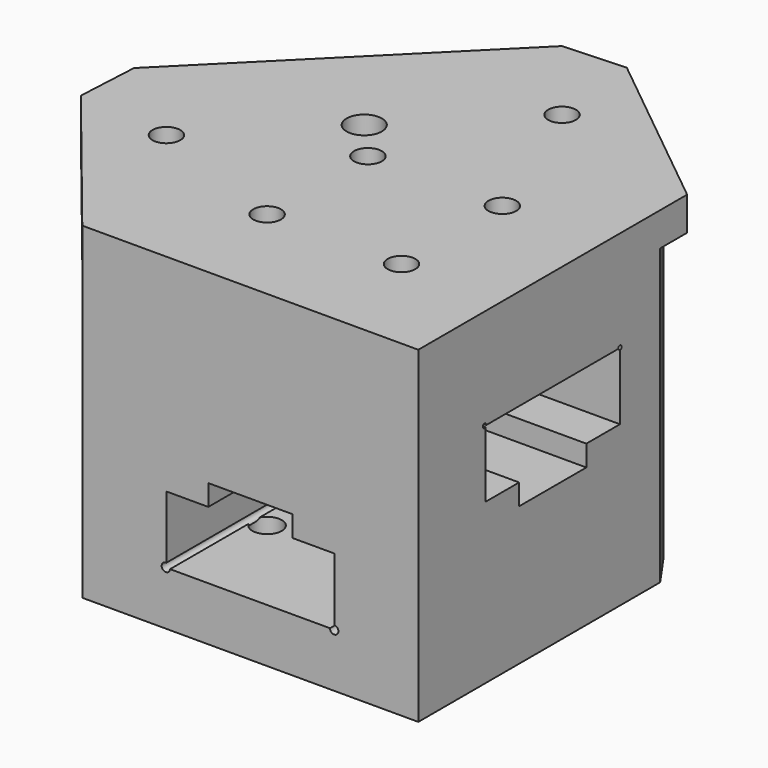
from build123d import *

# Parameters (mm, degrees)
PAD_DEPTH            = 35
POCKET_DEPTH         = 40.001
POCKET001_DEPTH      = 42.698592
SKETCH021_W          = 20
SKETCH021_H          = 20
POCKET002_DEPTH      = 3
POCKET002_DEPTH_BACK = -2
SKETCH016_R          = 0.5
POCKET003_DEPTH      = 42.698592
SKETCH015_R          = 0.25
POCKET004_DEPTH      = 40.001
POCKET005_DEPTH      = 37.501
PAD001_DEPTH         = 4
SKETCH024_R          = 1.65
POCKET006_DEPTH      = 39.001
SKETCH008_R          = 2.1
POCKET007_DEPTH      = 39.001
SKETCH003_R          = 1.65
POCKET008_DEPTH      = 16
SKETCH004_R          = 1.75
POCKET009_DEPTH      = 13
POCKET010_DEPTH      = 15.5
POCKET010_DEPTH_BACK = -16
SKETCH017_R          = 1.375
POCKET011_DEPTH      = 13.001
CHAMFER_SIZE         = 5


with BuildPart() as part:
    # Sketch → Pad (new body)
    with BuildSketch(Plane.XY):
        with BuildLine():
            Line((20, 20), (20, -20))
            Line((20, -20), (-20, -20))
            Line((-20, -20), (-20, 19.224144))
            ThreePointArc((-5.17104, 20), (-12.746205, 22.68325), (-20, 19.224144))
            Line((-5.17104, 20), (20, 20))
        make_face()
    extrude(amount=-PAD_DEPTH)

    # Sketch001 (on Face3 of Pad) → Pocket (cut, through all)
    with BuildSketch(Plane(origin=(-20, 0, 0), x_dir=(0, -1, 0), z_dir=(-1, 0, 0))):
        Polygon((-10, -8), (10, -8), (10, -16), (5, -16), (5, -18.5), (-5, -18.5), (-5, -16), (-10, -16), align=None)
    extrude(amount=-POCKET_DEPTH, mode=Mode.SUBTRACT)

    # Sketch019 (on Face5 of Pocket) → Pocket001 (cut, through all)
    with BuildSketch(Plane.XZ.offset(20)):
        Polygon((-10, -20.6), (-10, -28.6), (10, -28.6), (10, -20.6), (5, -20.6), (5, -18.1), (-5, -18.1), (-5, -20.6), align=None)
    extrude(amount=-POCKET001_DEPTH, mode=Mode.SUBTRACT)

    # Sketch021 → Pocket002 (cut, two sides)
    with BuildSketch(Plane.XY.offset(-12)) as pocket002_sk:
        Rectangle(SKETCH021_W, SKETCH021_H)
    extrude(amount=-POCKET002_DEPTH, mode=Mode.SUBTRACT)
    extrude(pocket002_sk.sketch, amount=-POCKET002_DEPTH_BACK, mode=Mode.SUBTRACT)

    # Sketch016 (on Face5 of Pocket002) → Pocket003 (cut, through all)
    with BuildSketch(Plane.XZ.offset(20)):
        with Locations((9.983657, -28.602995)):
            Circle(SKETCH016_R)
        with Locations((-10.053121, -28.576208)):
            Circle(SKETCH016_R)
    extrude(amount=-POCKET003_DEPTH, mode=Mode.SUBTRACT)

    # Sketch015 (on Face24 of Pocket003) → Pocket004 (cut, through all)
    with BuildSketch(Plane(origin=(-20, 0, 0), x_dir=(0, -1, 0), z_dir=(-1, 0, 0))):
        with Locations((-10.007711, -7.972068)):
            Circle(SKETCH015_R)
        with Locations((10.132993, -7.972068)):
            Circle(SKETCH015_R)
    extrude(amount=-POCKET004_DEPTH, mode=Mode.SUBTRACT)

    # Sketch025 → Pocket005 (cut, through all)
    with BuildSketch(Plane.XY.offset(2.5)):
        Polygon((10.336529, 29.786797), (28.676373, 3.594785), (36.756538, 10.988299), (24.594908, 30.303831), align=None)
    extrude(amount=-POCKET005_DEPTH, mode=Mode.SUBTRACT)

    # Sketch007 → Pad001 (join)
    with BuildSketch(Plane.XY):
        Polygon((20, -20), (20, 20), (-4.242641, 39.59798), (-39.59798, 4.242641), (-20, -20), align=None)
    extrude(amount=PAD001_DEPTH)

    # Sketch024 → Pocket006 (cut, through all)
    with BuildSketch(Plane.XY.offset(4)):
        with Locations((0.883883, 25.279067)):
            Circle(SKETCH024_R)
        with Locations((-25.279067, -0.883883)):
            Circle(SKETCH024_R)
    extrude(amount=-POCKET006_DEPTH, mode=Mode.SUBTRACT)

    # Sketch008 → Pocket007 (cut, through all)
    with BuildSketch(Plane.XY.offset(4)):
        with Locations((-12.197592, 12.197592)):
            Circle(SKETCH008_R)
    extrude(amount=-POCKET007_DEPTH, mode=Mode.SUBTRACT)

    # Sketch003 → Pocket008 (cut)
    with BuildSketch(Plane.XY.offset(4)):
        with Locations((-8, 7.5)):
            Circle(SKETCH003_R)
        with Locations((8, 7.5)):
            Circle(SKETCH003_R)
        with Locations((-8, -7.5)):
            Circle(SKETCH003_R)
        with Locations((8, -7.5)):
            Circle(SKETCH003_R)
    extrude(amount=-POCKET008_DEPTH, mode=Mode.SUBTRACT)

    # Sketch004 (on Face4 of Pocket008) → Pocket009 (cut)
    with BuildSketch(Plane(origin=(0, 0, -35), x_dir=(1, 0, 0), z_dir=(0, 0, -1))):
        with Locations((-8, 7.5)):
            Circle(SKETCH004_R)
        with Locations((8, 7.5)):
            Circle(SKETCH004_R)
        with Locations((-8, -7.5)):
            Circle(SKETCH004_R)
        with Locations((8, -7.5)):
            Circle(SKETCH004_R)
    extrude(amount=-POCKET009_DEPTH, mode=Mode.SUBTRACT)

    # Sketch022 (on Face6 of Pocket009) → Pocket010 (cut, two sides)
    with BuildSketch(Plane.XY.offset(-16)) as pocket010_sk:
        with BuildLine():
            ThreePointArc((-17.854446, 4.040738), (-16.086679, 4.772971), (-15.354446, 6.540738))
            Line((-15.354446, 6.540738), (-15.354446, 15.354446))
            Line((-15.354446, 15.354446), (-6.540738, 15.354446))
            ThreePointArc((-6.540738, 15.354446), (-4.772971, 16.086679), (-4.040738, 17.854446))
            Line((-4.040738, 22.984446), (-4.040738, 17.854446))
            Line((-22.234446, 22.984446), (-4.040738, 22.984446))
            Line((-22.234446, 4.040738), (-22.234446, 22.984446))
            Line((-22.234446, 4.040738), (-17.854446, 4.040738))
        make_face()
    extrude(amount=-POCKET010_DEPTH, mode=Mode.SUBTRACT)
    extrude(pocket010_sk.sketch, amount=-POCKET010_DEPTH_BACK, mode=Mode.SUBTRACT)

    # Sketch017 → Pocket011 (cut, through all)
    with BuildSketch(Plane.XY.offset(-22)):
        with Locations((-6.540738, 17.854446)):
            Circle(SKETCH017_R)
        with Locations((-17.854446, 6.540738)):
            Circle(SKETCH017_R)
        with Locations((-17.854446, 17.854446)):
            Circle(SKETCH017_R)
    extrude(amount=-POCKET011_DEPTH, mode=Mode.SUBTRACT)

    # Chamfer
    chamfer_edges = [part.edges().sort_by_distance(p)[0] for p in [
        (-4.242641, 39.59798, 2),
        (-39.59798, 4.242641, 2),
    ]]
    chamfer(chamfer_edges, length=CHAMFER_SIZE)


solid = part.part
